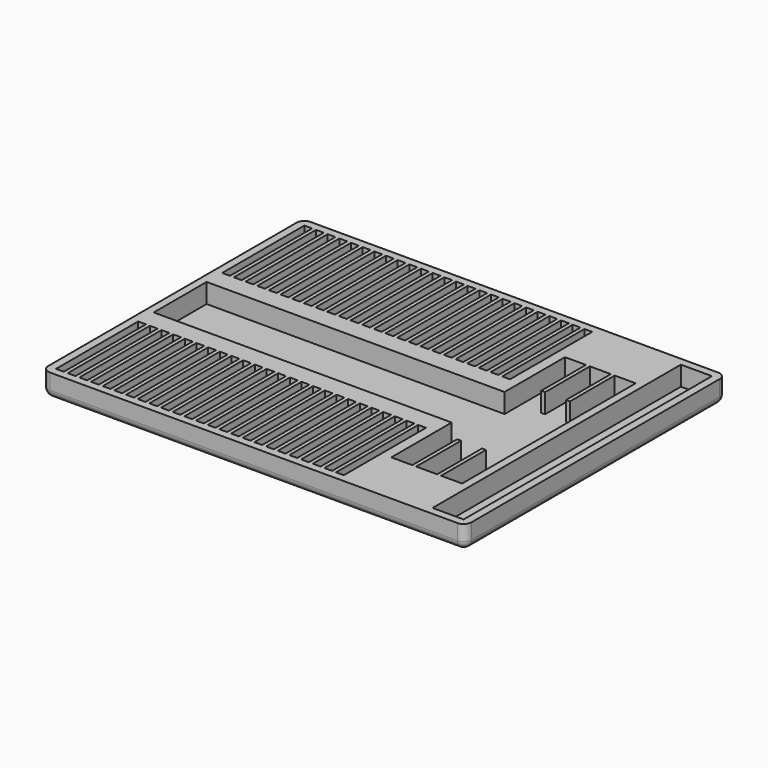
from build123d import *

# Parameters (mm, degrees)
F0_W      = 544
F0_H      = 419
F1_DEPTH  = 30
F2_R      = 10
F3_R      = 10
F5_W      = 40
F5_H      = 399
F6_DEPTH  = 25
F7_W      = 27
F7_H      = 72
F8_DEPTH  = 25
F4_W      = 10
F4_H      = 132
F9_DEPTH  = 25
F10_W     = 91
F10_H     = 135
F11_DEPTH = 25
F12_W     = 383
F12_H     = 85
F13_DEPTH = 25


with BuildPart() as f1:
    # F0 (on Top) → F1 (new body)
    with BuildSketch(Plane.XY):
        Rectangle(F0_W, F0_H)
    extrude(amount=F1_DEPTH)

    # F2
    f2_edges = [f1.edges().sort_by_distance(p)[0] for p in [
        (-272, -209.5, 15),
        (272, -209.5, 15),
        (272, 209.5, 15),
        (-272, 209.5, 15),
    ]]
    fillet(f2_edges, radius=F2_R)

    # F3
    f3_edges = [f1.edges().sort_by_distance(p)[0] for p in [
        (0, 209.5, 0),
    ]]
    fillet(f3_edges, radius=F3_R)

    # F5 (on face) → F6 (cut)
    with BuildSketch(Plane.XY.offset(30)):
        with Locations((242, 0)):
            Rectangle(F5_W, F5_H)
    extrude(amount=-F6_DEPTH, mode=Mode.SUBTRACT)

    # F7 (on face) → F8 (cut)
    with BuildSketch(Plane.XY.offset(30)):
        with Locations((198.5, -103.5)):
            Rectangle(F7_W, F7_H)
        with Locations((198.5, 103.5)):
            Rectangle(F7_W, F7_H)
        with Locations((166.5, -103.5)):
            Rectangle(F7_W, F7_H)
        with Locations((166.5, 103.5)):
            Rectangle(F7_W, F7_H)
        with Locations((134.5, -103.5)):
            Rectangle(F7_W, F7_H)
        with Locations((134.5, 103.5)):
            Rectangle(F7_W, F7_H)
    extrude(amount=-F8_DEPTH, mode=Mode.SUBTRACT)

    # F4 (on face) → F9 (cut)
    with BuildSketch(Plane.XY.offset(30)):
        with Locations((-257, -133.5)):
            Rectangle(F4_W, F4_H)
        with Locations((-257, 133.5)):
            Rectangle(F4_W, F4_H)
        with Locations((-242, -133.5)):
            Rectangle(F4_W, F4_H)
        with Locations((-242, 133.5)):
            Rectangle(F4_W, F4_H)
        with Locations((-227, -133.5)):
            Rectangle(F4_W, F4_H)
        with Locations((-227, 133.5)):
            Rectangle(F4_W, F4_H)
        with Locations((-212, -133.5)):
            Rectangle(F4_W, F4_H)
        with Locations((-212, 133.5)):
            Rectangle(F4_W, F4_H)
        with Locations((-197, -133.5)):
            Rectangle(F4_W, F4_H)
        with Locations((-197, 133.5)):
            Rectangle(F4_W, F4_H)
        with Locations((-182, -133.5)):
            Rectangle(F4_W, F4_H)
        with Locations((-182, 133.5)):
            Rectangle(F4_W, F4_H)
        with Locations((-167, -133.5)):
            Rectangle(F4_W, F4_H)
        with Locations((-167, 133.5)):
            Rectangle(F4_W, F4_H)
        with Locations((-152, -133.5)):
            Rectangle(F4_W, F4_H)
        with Locations((-152, 133.5)):
            Rectangle(F4_W, F4_H)
        with Locations((-137, -133.5)):
            Rectangle(F4_W, F4_H)
        with Locations((-137, 133.5)):
            Rectangle(F4_W, F4_H)
        with Locations((-122, -133.5)):
            Rectangle(F4_W, F4_H)
        with Locations((-122, 133.5)):
            Rectangle(F4_W, F4_H)
        with Locations((-107, -133.5)):
            Rectangle(F4_W, F4_H)
        with Locations((-107, 133.5)):
            Rectangle(F4_W, F4_H)
        with Locations((-92, -133.5)):
            Rectangle(F4_W, F4_H)
        with Locations((-92, 133.5)):
            Rectangle(F4_W, F4_H)
        with Locations((-77, -133.5)):
            Rectangle(F4_W, F4_H)
        with Locations((-77, 133.5)):
            Rectangle(F4_W, F4_H)
        with Locations((-62, -133.5)):
            Rectangle(F4_W, F4_H)
        with Locations((-62, 133.5)):
            Rectangle(F4_W, F4_H)
        with Locations((-47, -133.5)):
            Rectangle(F4_W, F4_H)
        with Locations((-47, 133.5)):
            Rectangle(F4_W, F4_H)
        with Locations((-32, -133.5)):
            Rectangle(F4_W, F4_H)
        with Locations((-32, 133.5)):
            Rectangle(F4_W, F4_H)
        with Locations((-17, -133.5)):
            Rectangle(F4_W, F4_H)
        with Locations((-17, 133.5)):
            Rectangle(F4_W, F4_H)
        with Locations((-2, -133.5)):
            Rectangle(F4_W, F4_H)
        with Locations((-2, 133.5)):
            Rectangle(F4_W, F4_H)
        with Locations((13, -133.5)):
            Rectangle(F4_W, F4_H)
        with Locations((13, 133.5)):
            Rectangle(F4_W, F4_H)
        with Locations((28, -133.5)):
            Rectangle(F4_W, F4_H)
        with Locations((28, 133.5)):
            Rectangle(F4_W, F4_H)
        with Locations((43, -133.5)):
            Rectangle(F4_W, F4_H)
        with Locations((43, 133.5)):
            Rectangle(F4_W, F4_H)
        with Locations((58, -133.5)):
            Rectangle(F4_W, F4_H)
        with Locations((58, 133.5)):
            Rectangle(F4_W, F4_H)
        with Locations((73, -133.5)):
            Rectangle(F4_W, F4_H)
        with Locations((73, 133.5)):
            Rectangle(F4_W, F4_H)
        with Locations((88, -133.5)):
            Rectangle(F4_W, F4_H)
        with Locations((88, 133.5)):
            Rectangle(F4_W, F4_H)
        with Locations((103, -133.5)):
            Rectangle(F4_W, F4_H)
        with Locations((103, 133.5)):
            Rectangle(F4_W, F4_H)
    extrude(amount=-F9_DEPTH, mode=Mode.SUBTRACT)

    # F10 (on face) → F11 (cut)
    with BuildSketch(Plane.XY.offset(30)):
        with Locations((166.5, 0)):
            Rectangle(F10_W, F10_H)
    extrude(amount=-F11_DEPTH, mode=Mode.SUBTRACT)

    # F12 (on face) → F13 (cut)
    with BuildSketch(Plane.XY.offset(30)):
        with Locations((-70.5, 0)):
            Rectangle(F12_W, F12_H)
    extrude(amount=-F13_DEPTH, mode=Mode.SUBTRACT)


solid = f1.part
